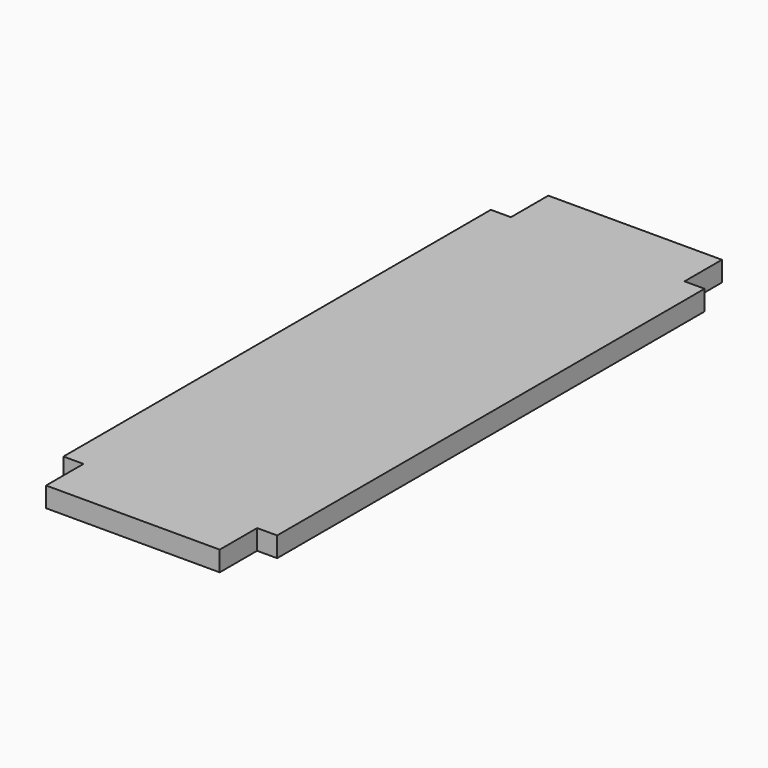
from build123d import *

# Parameters (mm, degrees)
F0_W     = 38.1
F0_H     = 88.9
F0_W_2   = 330.2
F0_H_2   = 44.45
F1_DEPTH = 38.1


with BuildPart() as f1:
    # F0 (on Top) → F1 (new body)
    with BuildSketch(Plane.XY):
        Polygon((0, 1155.7), (0, 717.55), (38.1, 717.55), (38.1, 628.65), (0, 628.65), (0, 139.7), (38.1, 139.7), (38.1, 95.25), (368.3, 95.25), (368.3, 139.7), (406.4, 139.7), (406.4, 628.65), (368.3, 628.65), (368.3, 717.55), (406.4, 717.55), (406.4, 1155.7), (368.3, 1155.7), (368.3, 1200.15), (38.1, 1200.15), (38.1, 1155.7), align=None)
        with Locations((19.05, 673.1)):
            Rectangle(F0_W, F0_H)
        with Locations((203.2, 1222.375)):
            Rectangle(F0_W_2, F0_H_2)
        with Locations((203.2, 73.025)):
            Rectangle(F0_W_2, F0_H_2)
        with Locations((387.35, 673.1)):
            Rectangle(F0_W, F0_H)
    extrude(amount=F1_DEPTH)


solid = f1.part
